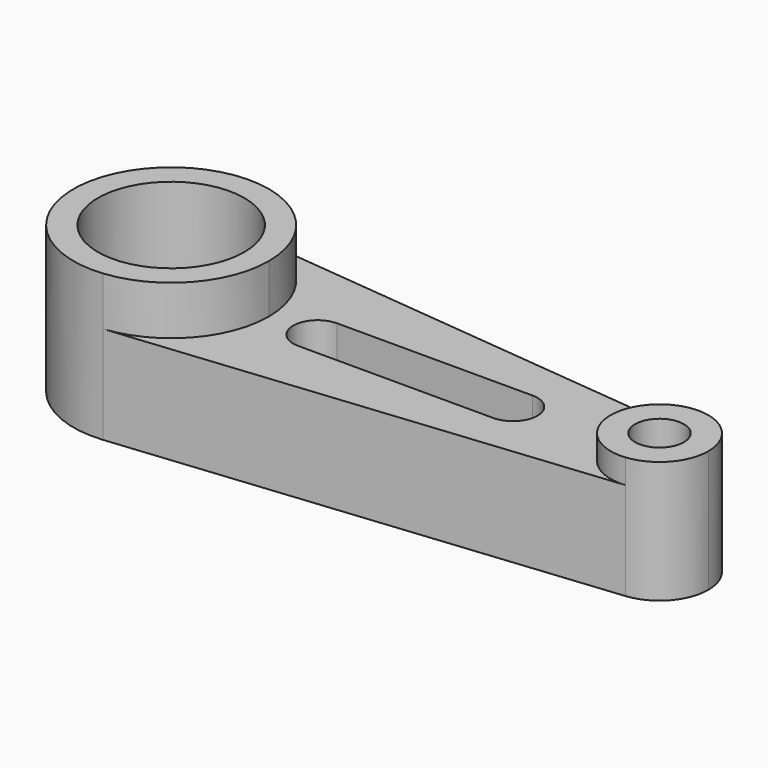
from build123d import *

# Parameters (mm, degrees)
F0_R     = 19.05
F1_DEPTH = 38.1
F2_DEPTH = 25.4
F0_R_2   = 6.35
F3_DEPTH = 31.75


with BuildPart() as f1:
    # F0 (on Top) → F1 (new body)
    with BuildSketch(Plane.XY):
        with BuildLine():
            ThreePointArc((2.54, -25.272681), (18.837144, -17.038838), (25.4, 0))
            ThreePointArc((25.4, 0), (18.837144, 17.038838), (2.54, 25.272681))
            ThreePointArc((2.54, 25.272681), (-25.4, 0), (2.54, -25.272681))
        make_face()
        Circle(F0_R, mode=Mode.SUBTRACT)
    extrude(amount=F1_DEPTH)

    # F0 (on Top) → F2 (join)
    with BuildSketch(Plane.XY):
        with BuildLine():
            ThreePointArc((2.54, 25.272681), (18.837144, 17.038838), (25.4, 0))
            ThreePointArc((25.4, 0), (18.837144, -17.038838), (2.54, -25.272681))
            Line((2.54, -25.272681), (128.27, -12.63634))
            ThreePointArc((128.27, -12.63634), (114.3, 0), (128.27, 12.63634))
            Line((128.27, 12.63634), (2.54, 25.272681))
        make_face()
        with BuildLine():
            ThreePointArc((38.1, -6.35), (31.75, 0), (38.1, 6.35))
            Line((38.1, 6.35), (88.9, 6.35))
            ThreePointArc((88.9, 6.35), (95.25, 0), (88.9, -6.35))
            Line((88.9, -6.35), (38.1, -6.35))
        make_face(mode=Mode.SUBTRACT)
    extrude(amount=F2_DEPTH)

    # F0 (on Top) → F3 (join)
    with BuildSketch(Plane.XY):
        with BuildLine():
            ThreePointArc((139.7, 0), (136.418572, 8.519419), (128.27, 12.63634))
            ThreePointArc((128.27, 12.63634), (114.3, 0), (128.27, -12.63634))
            ThreePointArc((128.27, -12.63634), (136.418572, -8.519419), (139.7, 0))
        make_face()
        with Locations((127, 0)):
            Circle(F0_R_2, mode=Mode.SUBTRACT)
    extrude(amount=F3_DEPTH)


solid = f1.part
